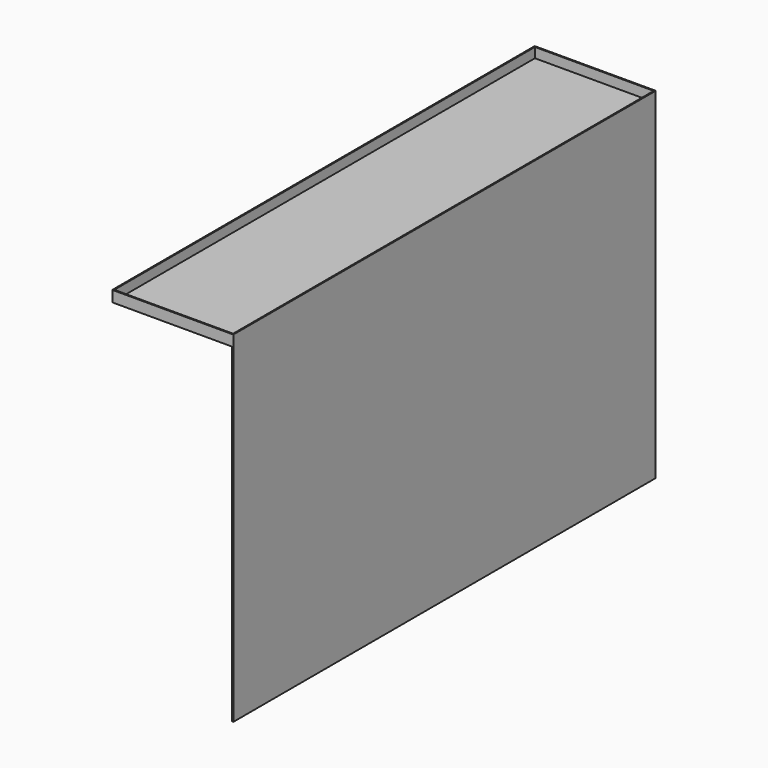
from build123d import *

# Parameters (mm, degrees)
F1_DEPTH = 1219.2
F2_T     = -2.54


with BuildPart() as f1:
    # F0 (on Front) → F1 (new body)
    with BuildSketch(Plane.XZ):
        Polygon((-2.54, 0), (0, 0), (0, 787.4), (-279.4, 787.4), (-279.4, 762), (-2.54, 762), align=None)
    extrude(amount=F1_DEPTH)

    # F2
    f2_openings = [f1.faces().sort_by_distance(p)[0] for p in [
        (-139.7, -609.6, 787.4),
    ]]
    offset(amount=F2_T, openings=f2_openings, kind=Kind.INTERSECTION)


solid = f1.part
